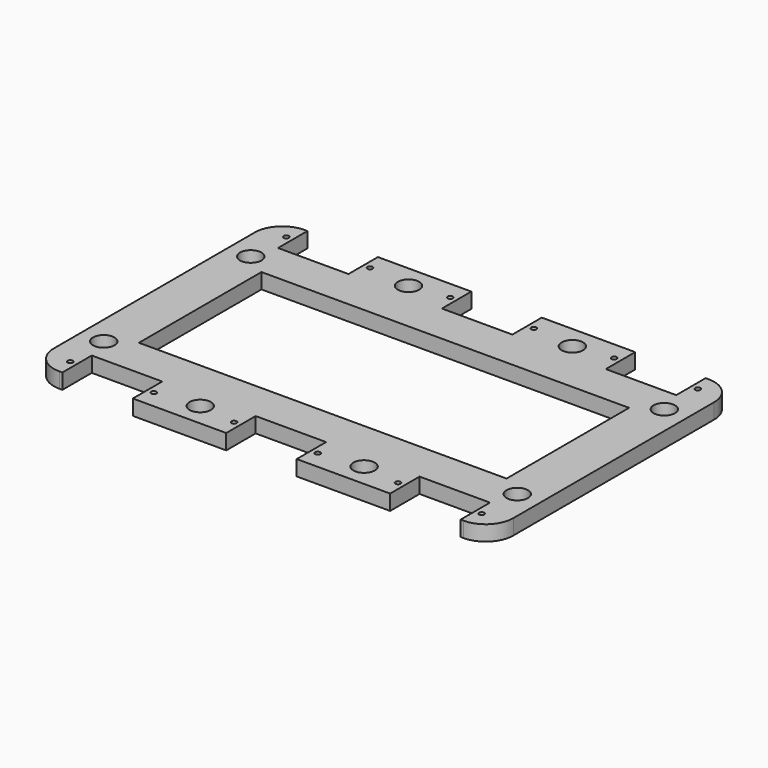
from build123d import *

# Parameters (mm, degrees)
SKETCH_W        = 150
SKETCH_H        = 100
PAD_DEPTH       = 5
SKETCH001_W     = 23
SKETCH001_H     = 12
POCKET_DEPTH    = 16
SKETCH002_R     = 0.85
SKETCH002_R_2   = 3.5
SKETCH002_W     = 120
SKETCH002_H     = 50
POCKET001_DEPTH = 10
SKETCH003_R     = 3.5
POCKET002_DEPTH = 10
FILLET_R        = 9
FILLET001_R     = 9
FILLET002_R     = 9
FILLET003_R     = 9


with BuildPart() as part:
    # Sketch → Pad (new body)
    with BuildSketch(Plane.XY):
        Rectangle(SKETCH_W, SKETCH_H)
    extrude(amount=PAD_DEPTH)

    # Sketch001 (on Face6 of Pad) → Pocket (cut)
    with BuildSketch(Plane.XY.offset(5)):
        with Locations((-53.5, 44)):
            Rectangle(SKETCH001_W, SKETCH001_H)
        with Locations((-53.5, -44)):
            Rectangle(SKETCH001_W, SKETCH001_H)
        with Locations((0, 44)):
            Rectangle(SKETCH001_W, SKETCH001_H)
        with Locations((0, -44)):
            Rectangle(SKETCH001_W, SKETCH001_H)
        with Locations((53.5, 44)):
            Rectangle(SKETCH001_W, SKETCH001_H)
        with Locations((53.5, -44)):
            Rectangle(SKETCH001_W, SKETCH001_H)
    extrude(amount=-POCKET_DEPTH, mode=Mode.SUBTRACT)

    # Sketch002 (on Face4 of Pocket) → Pocket001 (cut)
    with BuildSketch(Plane.XY.offset(5)):
        with Locations((-39.85, -44.1)):
            Circle(SKETCH002_R)
        with Locations((-67.15, 44.1)):
            Circle(SKETCH002_R)
        with Locations((-39.85, 44.1)):
            Circle(SKETCH002_R)
        with Locations((-13.65, 44.1)):
            Circle(SKETCH002_R)
        with Locations((13.65, 44.1)):
            Circle(SKETCH002_R)
        with Locations((39.85, 44.1)):
            Circle(SKETCH002_R)
        with Locations((67.15, 44.1)):
            Circle(SKETCH002_R)
        with Locations((39.85, -44.1)):
            Circle(SKETCH002_R)
        with Locations((67.15, -44.1)):
            Circle(SKETCH002_R)
        with Locations((13.65, -44.1)):
            Circle(SKETCH002_R)
        with Locations((-13.65, -44.1)):
            Circle(SKETCH002_R)
        with Locations((-67.15, -44.1)):
            Circle(SKETCH002_R)
        with Locations((67.5, 30)):
            Circle(SKETCH002_R_2)
        with Locations((67.5, -30)):
            Circle(SKETCH002_R_2)
        with Locations((-67.5, 30)):
            Circle(SKETCH002_R_2)
        with Locations((-67.5, -30)):
            Circle(SKETCH002_R_2)
        Rectangle(SKETCH002_W, SKETCH002_H)
    extrude(amount=-POCKET001_DEPTH, mode=Mode.SUBTRACT)

    # Sketch003 → Pocket002 (cut)
    with BuildSketch(Plane.XY.offset(7)):
        with Locations((-26, -42.5)):
            Circle(SKETCH003_R)
        with Locations((27.5, -42.5)):
            Circle(SKETCH003_R)
        with Locations((-26, 42.5)):
            Circle(SKETCH003_R)
        with Locations((27.5, 42.5)):
            Circle(SKETCH003_R)
    extrude(amount=-POCKET002_DEPTH, mode=Mode.SUBTRACT)

    # Fillet
    fillet_edges = [part.edges().sort_by_distance(p)[0] for p in [
        (75, -50, 2.5),
    ]]
    fillet(fillet_edges, radius=FILLET_R)

    # Fillet001
    fillet001_edges = [part.edges().sort_by_distance(p)[0] for p in [
        (75, 50, 2.5),
    ]]
    fillet(fillet001_edges, radius=FILLET001_R)

    # Fillet002
    fillet002_edges = [part.edges().sort_by_distance(p)[0] for p in [
        (-75, 50, 2.5),
    ]]
    fillet(fillet002_edges, radius=FILLET002_R)

    # Fillet003
    fillet003_edges = [part.edges().sort_by_distance(p)[0] for p in [
        (-75, -50, 2.5),
    ]]
    fillet(fillet003_edges, radius=FILLET003_R)


solid = part.part
